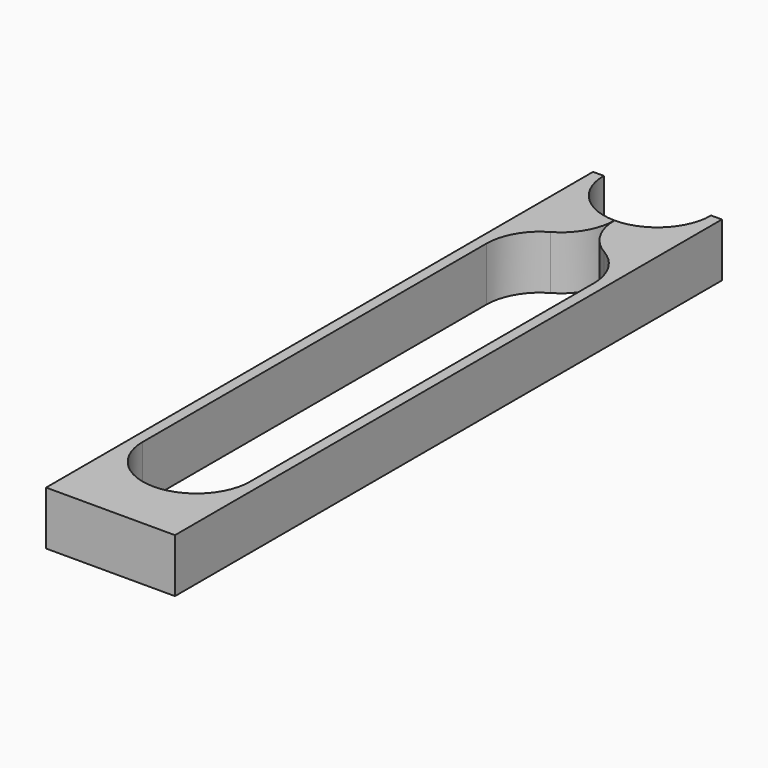
from build123d import *

# Parameters (mm, degrees)
PAD_DEPTH = 5


with BuildPart() as part:
    # Sketch → Pad (new body)
    with BuildSketch(Plane.XY):
        with BuildLine():
            ThreePointArc((-5, 13.660254), (-3.535534, 10.12472), (0, 8.660254))
            ThreePointArc((-2.5, 4.330127), (-0.669873, 6.160254), (0, 8.660254))
            ThreePointArc((-2.5, 4.330127), (-4.330127, 2.5), (-5, 0))
            Line((-5, 0), (-5, -40))
            ThreePointArc((-5, -40), (0, -45), (5, -40))
            Line((5, -40), (5, 0))
            ThreePointArc((5, 0), (4.330127, 2.5), (2.5, 4.330127))
            ThreePointArc((0, 8.660254), (0.669873, 6.160254), (2.5, 4.330127))
            ThreePointArc((0, 8.660254), (3.535534, 10.12472), (5, 13.660254))
            Line((5, 13.660254), (6, 13.660254))
            Line((6, 13.660254), (6, -50))
            Line((6, -50), (-6, -50))
            Line((-6, -50), (-6, 13.660254))
            Line((-6, 13.660254), (-5, 13.660254))
        make_face()
    extrude(amount=PAD_DEPTH)


solid = part.part
